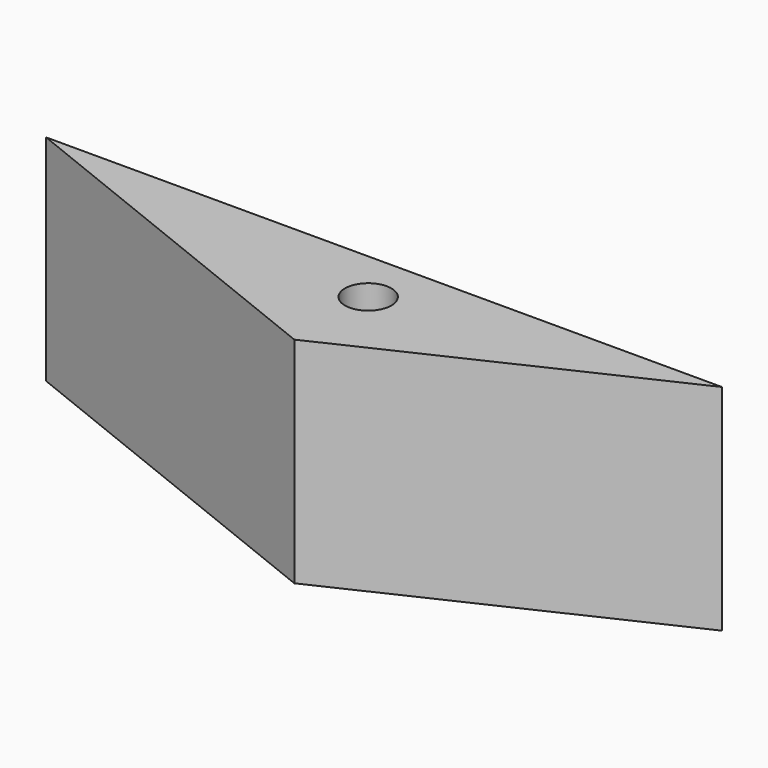
from build123d import *

# Parameters (mm, degrees)
F1_DEPTH = 25.4
F3_D     = 5.5


with BuildPart() as f1:
    # F0 (on Top) → F1 (new body)
    with BuildSketch(Plane.XY):
        Polygon((-43.217193, 17.289683), (0, 0), (36.803976, 17.289683), align=None)
    extrude(amount=F1_DEPTH)

    # F3 (through all)
    with Locations(Plane.XY.offset(25.4)):
        with Locations((0, 10.939683)):
            Hole(F3_D / 2)


solid = f1.part
